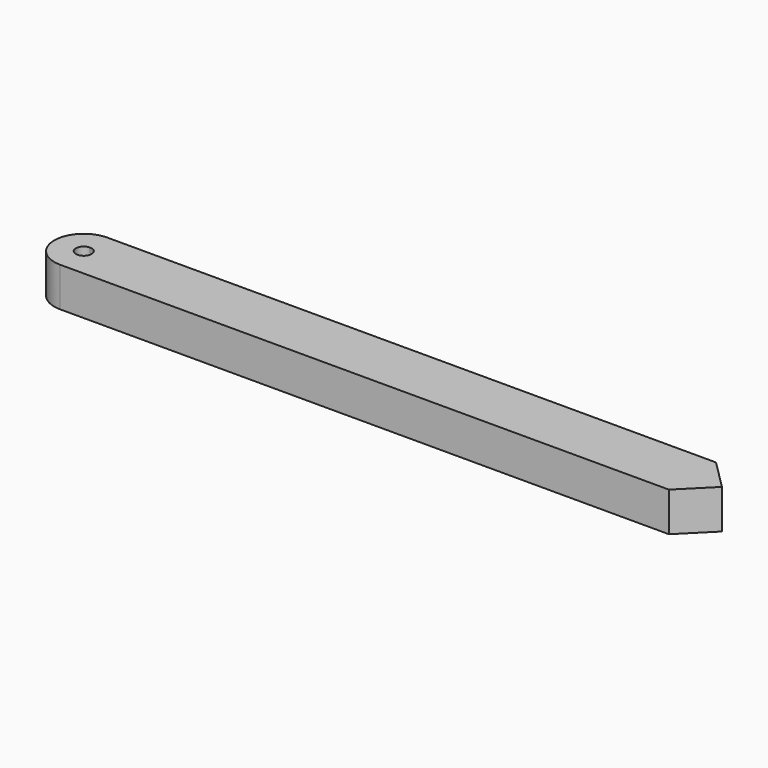
from build123d import *

# Parameters (mm, degrees)
F1_DEPTH = 10


with BuildPart() as f1:
    # F0 (on Top) → F1 (new body)
    with BuildSketch(Plane.XY):
        with BuildLine():
            Line((70, 7.5), (-85, 7.5))
            Line((-85, 7.5), (-85, 2))
            ThreePointArc((-85, 2), (-83.585786, 1.414214), (-83, 0))
            ThreePointArc((-83, 0), (-83.585786, -1.414214), (-85, -2))
            Line((-85, -2), (-85, -7.5))
            Line((-85, -7.5), (70, -7.5))
            Line((70, -7.5), (77.5, 0))
            Line((77.5, 0), (70, 7.5))
        make_face()
        with BuildLine():
            Line((-85, 2), (-85, 7.5))
            ThreePointArc((-85, 7.5), (-92.5, 0), (-85, -7.5))
            Line((-85, -7.5), (-85, -2))
            ThreePointArc((-85, -2), (-87, 0), (-85, 2))
        make_face()
    extrude(amount=F1_DEPTH)


solid = f1.part
